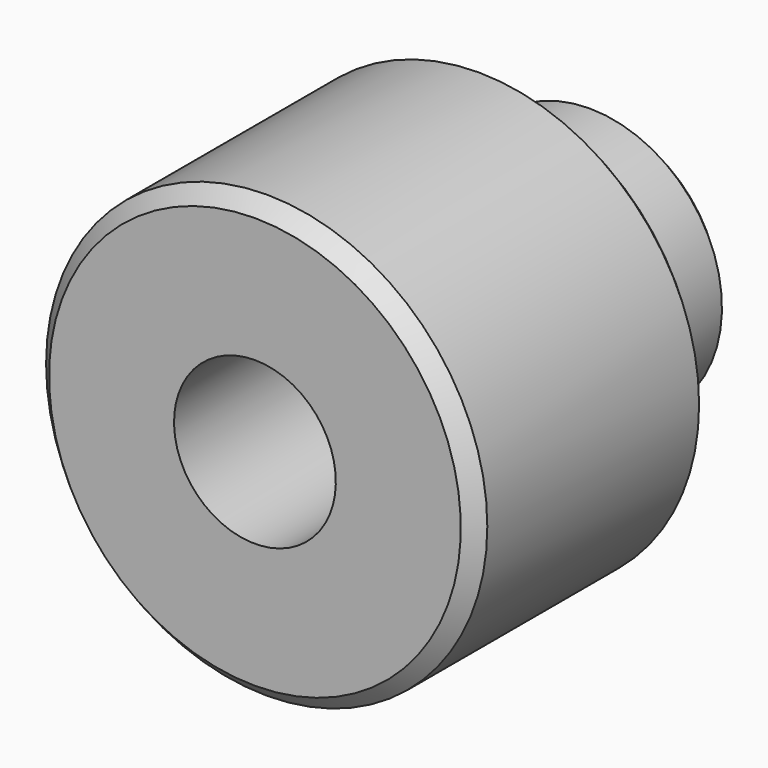
from build123d import *

# Parameters (mm, degrees)
F2_SIZE = 2


with BuildPart() as f1:
    # F0 (on Right) → F1 (revolve)
    with BuildSketch(Plane.YZ):
        Polygon((15.555556, 30), (-24.444444, 30), (-24.444444, 11), (34.444445, 11), (34.444445, 18), (15.555556, 18), align=None)
    revolve(axis=Axis((0, -2.539683, 0), (0, 1, 0)))

    # F2
    f2_edges = [f1.edges().sort_by_distance(p)[0] for p in [
        (0, 34.444445, -18),
        (0, 15.555556, -30),
        (0, -24.444444, -30),
    ]]
    chamfer(f2_edges, length=F2_SIZE)


solid = f1.part
